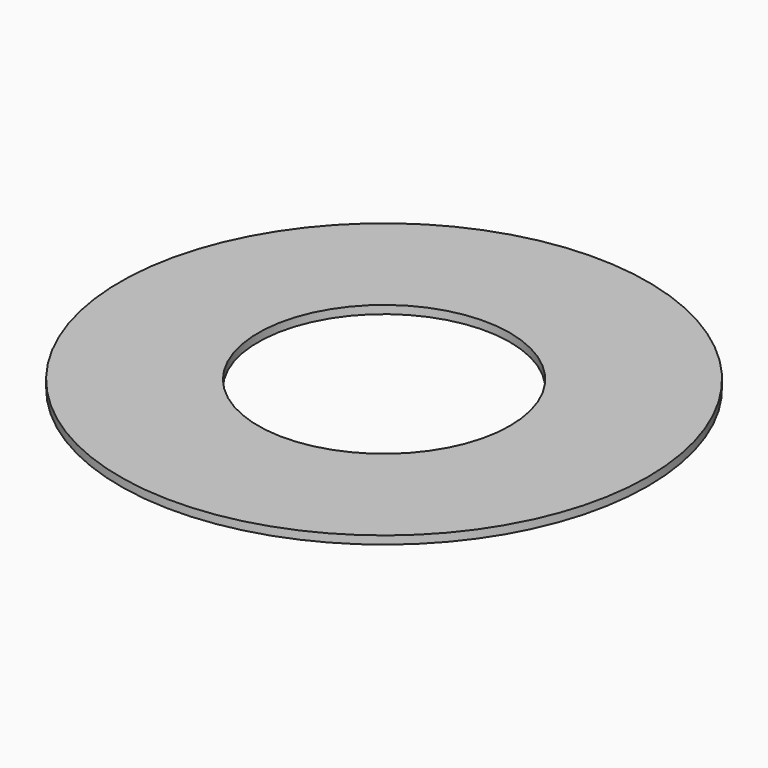
from build123d import *

# Parameters (mm, degrees)
CYLINDER_R        = 15.5
CYLINDER_DEPTH    = 10
CYLINDER001_R     = 32.5
CYLINDER001_DEPTH = 1


with BuildPart() as cylinder:
    # Cylinder → Cylinder (new body)
    with BuildSketch(Plane.XY.offset(-2)):
        Circle(CYLINDER_R)
    extrude(amount=CYLINDER_DEPTH)


with BuildPart() as cut:
    # Cylinder001 → Cylinder001 (new body)
    with BuildSketch(Plane.XY):
        Circle(CYLINDER001_R)
    extrude(amount=CYLINDER001_DEPTH)

    # Cut: cut Cylinder
    add(cylinder.part, mode=Mode.SUBTRACT)


solid = cut.part
